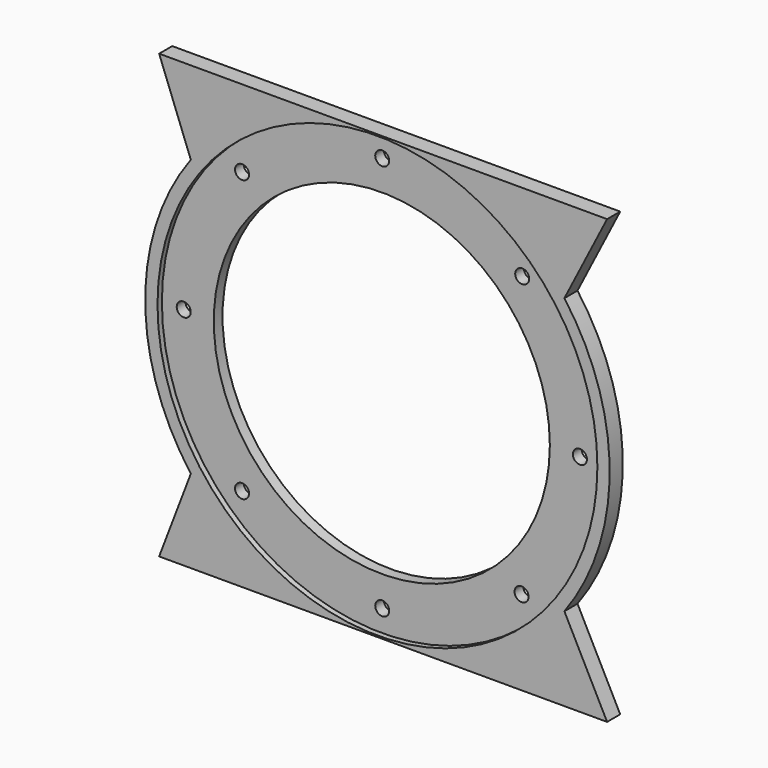
from build123d import *

# Parameters (mm, degrees)
F0_R     = 161
F0_R_2   = 5.127079
F0_R_3   = 123
F1_DEPTH = 8
F2_DEPTH = 12


with BuildPart() as f1:
    # F0 (on Front) → F1 (new body)
    with BuildSketch(Plane.XZ):
        with Locations((-303.629764, 0)):
            Circle(F0_R)
        with Locations((-405.93836, -102.751891)):
            Circle(F0_R_2, mode=Mode.SUBTRACT)
        with Locations((-303.317233, -145)):
            Circle(F0_R_2, mode=Mode.SUBTRACT)
        with Locations((-201.317497, -102.748236)):
            Circle(F0_R_2, mode=Mode.SUBTRACT)
        with Locations((-158.629764, -0.304881)):
            Circle(F0_R_2, mode=Mode.SUBTRACT)
        with Locations((-448.629764, 0.323695)):
            Circle(F0_R_2, mode=Mode.SUBTRACT)
        with Locations((-405.930929, 102.75929)):
            Circle(F0_R_2, mode=Mode.SUBTRACT)
        with Locations((-303.629764, 0)):
            Circle(F0_R_3, mode=Mode.SUBTRACT)
        with Locations((-303.317233, 145)):
            Circle(F0_R_2, mode=Mode.SUBTRACT)
        with Locations((-200.870767, 102.301459)):
            Circle(F0_R_2, mode=Mode.SUBTRACT)
    extrude(amount=F1_DEPTH)

    # F0 (on Front) → F2 (join)
    with BuildSketch(Plane.XZ):
        with BuildLine():
            Line((-135.525019, 162), (-463.432019, 162))
            Line((-463.432019, 162), (-440.246351, 101.172665))
            ThreePointArc((-440.246351, 101.172665), (-473.629764, 0), (-440.246351, -101.172665))
            Line((-440.246351, -101.172665), (-463.432019, -162))
            Line((-463.432019, -162), (-135.518019, -162))
            Line((-135.518019, -162), (-166.787395, -100.867071))
            ThreePointArc((-166.787395, -100.867071), (-133.629764, 0.003823), (-166.791931, 100.873225))
            Line((-166.791931, 100.873225), (-135.525019, 162))
        make_face()
        with Locations((-303.629764, 0)):
            Circle(F0_R, mode=Mode.SUBTRACT)
    extrude(amount=F2_DEPTH)


solid = f1.part
